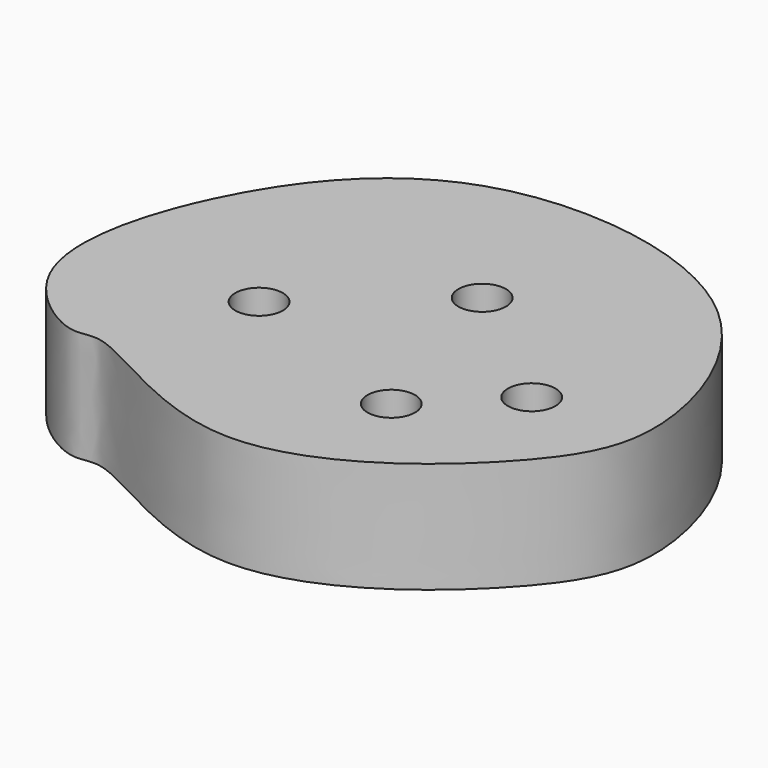
from build123d import *

# Parameters (mm, degrees)
F1_DEPTH = 25
F3_D     = 10.71626
F3_DEPTH = 15.862
F3_TIP   = 3.2194893086


with BuildPart() as f1:
    # F0 (on Top) → F1 (new body)
    with BuildSketch(Plane.XY):
        with BuildLine():
            add(Edge.make_bspline(
                [(-49.8044379056, 0), (-42.6872454442, 14.9794469796), (-19.6549283613, 42.9284638142), (50.7990830116, 32.7664968427), (69.6711318471, -18.6578787101), (58.7557252186, -44.2477033672), (10.3564770147, -83.1385331726), (-30.8939777005, -51.2505670148), (-38.1489431363, -56.9099286478), (-62.2137868249, -40.1932082757), (-56.3097040337, -13.6915349113), (-49.8044379056, 0)],
                knots=[0, 0, 0, 0, 0.1278870515, 0.2715174614, 0.3973206367, 0.4924836254, 0.6285106531, 0.7487553546, 0.796303691, 0.8831084998, 1, 1, 1, 1], degree=3))
        make_face()
    extrude(amount=F1_DEPTH)

    # F3
    with Locations(Plane.XY.offset(25)):
        with Locations((10.712960735, 0), (-19.0044436604, -25.7028713822), (23.4489906579, -41.5264256299), (41.2022471428, -24.1591110826)):
            Hole(F3_D / 2, depth=F3_DEPTH)
            with Locations((0, 0, -(F3_DEPTH + F3_TIP / 2))):  # 118° drill point
                Cone(0, F3_D / 2, F3_TIP, mode=Mode.SUBTRACT)


solid = f1.part
